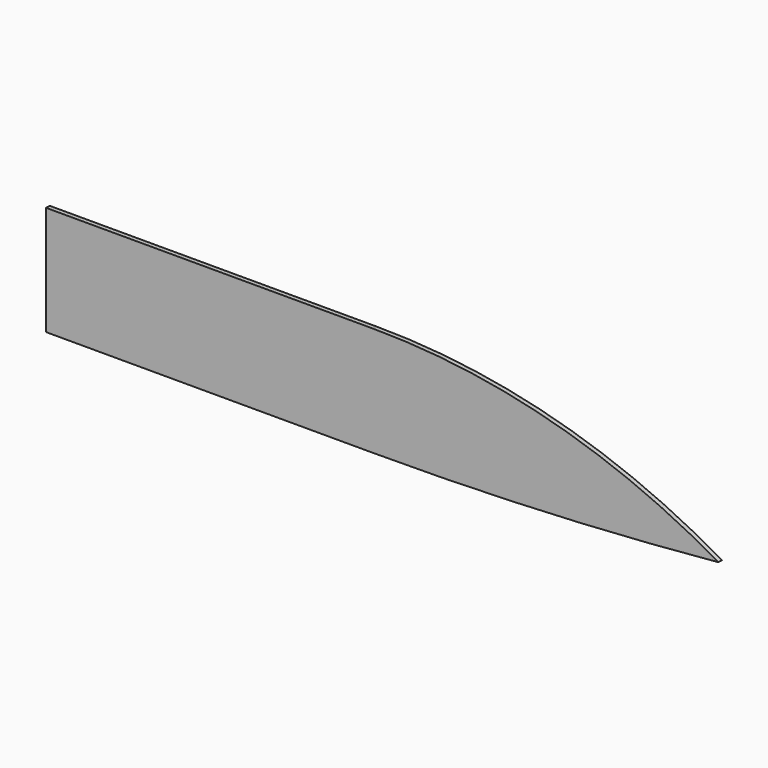
from build123d import *

# Parameters (mm, degrees)
F1_DEPTH = 3.175


with BuildPart() as f1:
    # F0 (on Front) → F1 (new body)
    with BuildSketch(Plane.XZ):
        with BuildLine():
            Line((0.697196, 31.366996), (-232.63946, 31.366996))
            Line((-232.63946, 31.366996), (-232.63946, -46.696744))
            Line((-232.63946, -46.696744), (0.697196, -46.696744))
            ThreePointArc((0.697196, -46.696744), (123.963453, -43.834227), (246.963958, -35.252845))
            ThreePointArc((246.963958, -35.252845), (128.256517, 14.417995), (0.697196, 31.366996))
        make_face()
    extrude(amount=F1_DEPTH)


solid = f1.part
